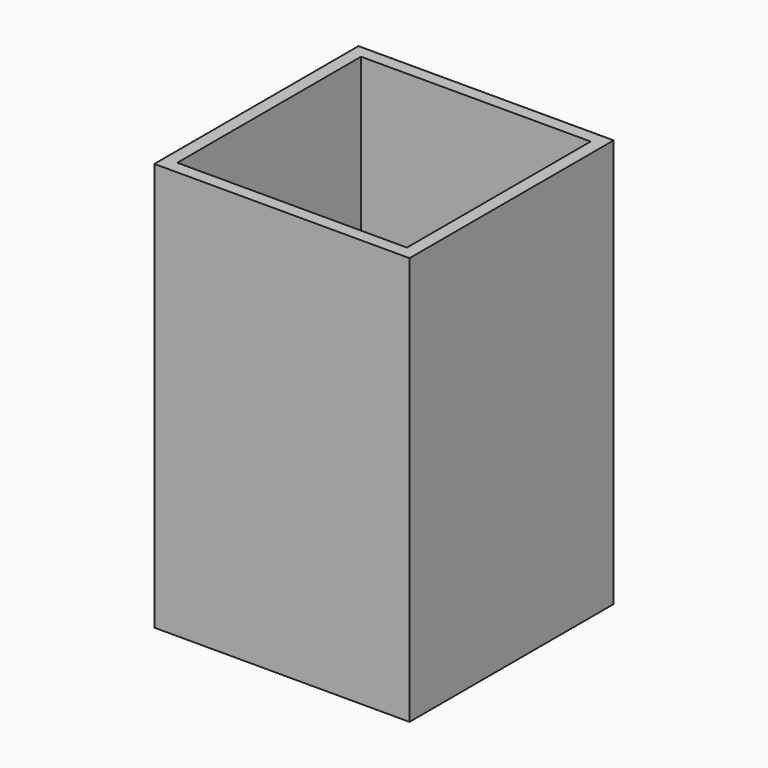
from build123d import *

# Parameters (mm, degrees)
BOX001_W     = 45
BOX001_H     = 45
BOX001_DEPTH = 80
BOX_W        = 50
BOX_H        = 50
BOX_DEPTH    = 80


with BuildPart() as cubo001:
    # Box001 → Box001 (new body)
    with BuildSketch(Plane(origin=(2.5, 2.5, 0), x_dir=(1, 0, 0), z_dir=(0, 0, 1))):
        with Locations((22.5, 22.5)):
            Rectangle(BOX001_W, BOX001_H)
    extrude(amount=BOX001_DEPTH)


with BuildPart() as cut:
    # Box → Box (new body)
    with BuildSketch(Plane.XY):
        with Locations((25, 25)):
            Rectangle(BOX_W, BOX_H)
    extrude(amount=BOX_DEPTH)

    # Cut: cut Cubo001
    add(cubo001.part, mode=Mode.SUBTRACT)


solid = cut.part
